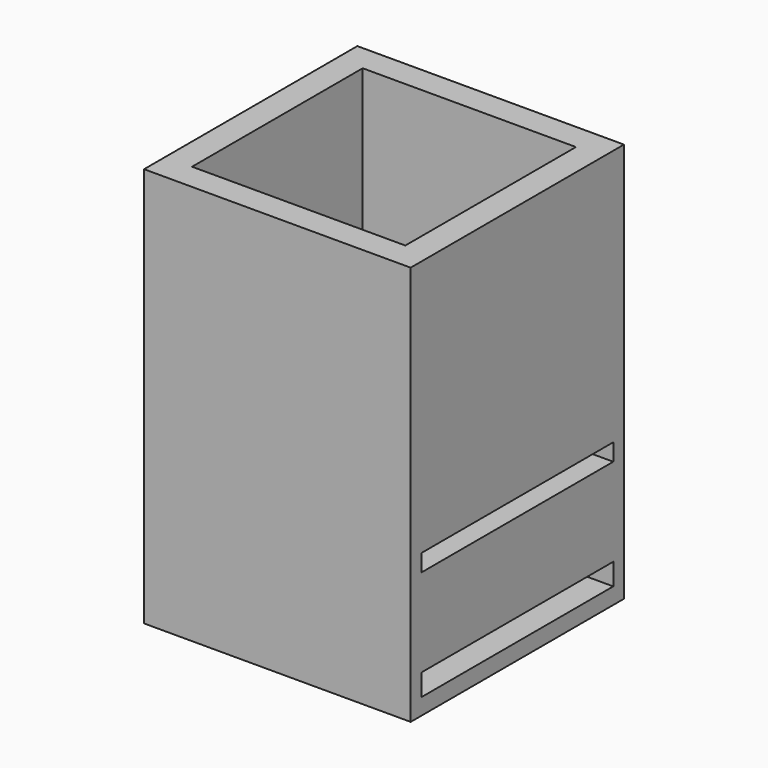
from build123d import *

# Parameters (mm, degrees)
F0_W          = 25.4
F0_H          = 25.4
F1_DEPTH      = 38.1
F2_T          = -2.54
F3_W          = 19.05
F3_H          = 12.7
F4_DEPTH      = 25.4
F5_W          = 22.86
F5_H          = 2.071403
F6_DEPTH      = 25.4
F6_DEPTH_BACK = 25.4
F7_W          = 22.86
F7_H          = 1.634075
F8_DEPTH      = 25.4
F8_DEPTH_BACK = 25.4


with BuildPart() as f1:
    # F0 (on Top) → F1 (new body)
    with BuildSketch(Plane.XY):
        Rectangle(F0_W, F0_H)
    extrude(amount=F1_DEPTH)

    # F2
    f2_openings = [f1.faces().sort_by_distance(p)[0] for p in [
        (0, 0, 38.1),
    ]]
    offset(amount=F2_T, openings=f2_openings)

    # F3 (on Top) → F4 (cut)
    with BuildSketch(Plane.XY):
        Rectangle(F3_W, F3_H)
        Rectangle(F3_W, F3_H)
    extrude(amount=F4_DEPTH, mode=Mode.SUBTRACT)

    # F5 (on Right) → F6 (cut, two sides)
    with BuildSketch(Plane.YZ) as f6_sk:
        with Locations((0, 2.593235)):
            Rectangle(F5_W, F5_H)
    extrude(amount=F6_DEPTH, mode=Mode.SUBTRACT)
    extrude(f6_sk.sketch, amount=-F6_DEPTH_BACK, mode=Mode.SUBTRACT)

    # F7 (on Right) → F8 (cut, two sides)
    with BuildSketch(Plane.YZ) as f8_sk:
        with Locations((0, 12.831571)):
            Rectangle(F7_W, F7_H)
    extrude(amount=F8_DEPTH, mode=Mode.SUBTRACT)
    extrude(f8_sk.sketch, amount=-F8_DEPTH_BACK, mode=Mode.SUBTRACT)


solid = f1.part
